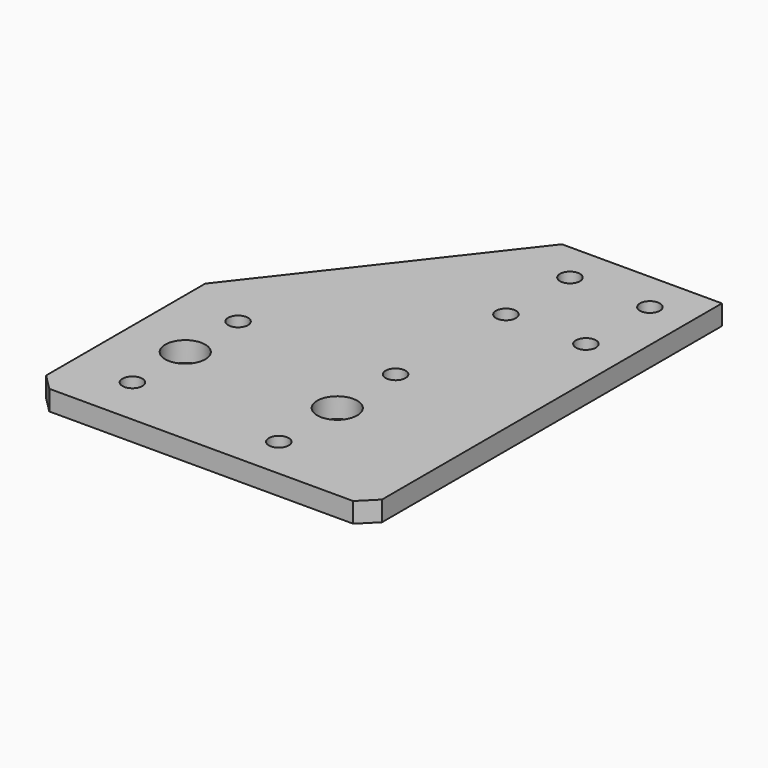
from build123d import *

# Parameters (mm, degrees)
SKETCH_R     = 2.5
SKETCH_R_2   = 5
PAD_DEPTH    = 5
CHAMFER_SIZE = 4


with BuildPart() as part:
    # Sketch → Pad (new body)
    with BuildSketch(Plane.XY):
        Polygon((84, 110.25), (44, 110.25), (0, 53.75), (0, 0), (84, 0), align=None)
        with Locations((15, 45.25)):
            Circle(SKETCH_R, mode=Mode.SUBTRACT)
        with Locations((15, 12.25)):
            Circle(SKETCH_R, mode=Mode.SUBTRACT)
        with Locations((15, 28.75)):
            Circle(SKETCH_R_2, mode=Mode.SUBTRACT)
        with Locations((53, 47)):
            Circle(SKETCH_R, mode=Mode.SUBTRACT)
        with Locations((53, 28.75)):
            Circle(SKETCH_R_2, mode=Mode.SUBTRACT)
        with Locations((53, 10.5)):
            Circle(SKETCH_R, mode=Mode.SUBTRACT)
        with Locations((54, 80.25)):
            Circle(SKETCH_R, mode=Mode.SUBTRACT)
        with Locations((74, 80.25)):
            Circle(SKETCH_R, mode=Mode.SUBTRACT)
        with Locations((54, 100.25)):
            Circle(SKETCH_R, mode=Mode.SUBTRACT)
        with Locations((74, 100.25)):
            Circle(SKETCH_R, mode=Mode.SUBTRACT)
    extrude(amount=PAD_DEPTH)

    # Chamfer
    chamfer_edges = [part.edges().sort_by_distance(p)[0] for p in [
        (0, 0, 2.5),
        (84, 0, 2.5),
    ]]
    chamfer(chamfer_edges, length=CHAMFER_SIZE)


solid = part.part
